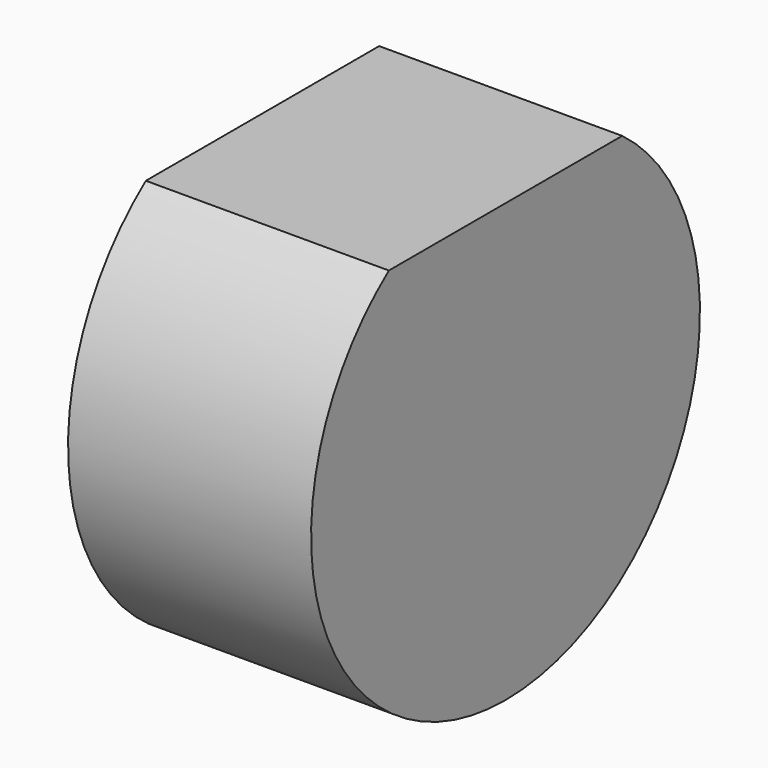
from build123d import *

# Parameters (mm, degrees)
F1_DEPTH = 1


with BuildPart() as f1:
    # F0 (on Right) → F1 (new body)
    with BuildSketch(Plane.YZ):
        with BuildLine():
            Line((0.6, 0.8), (-0.6, 0.8))
            ThreePointArc((-0.6, 0.8), (0, -1), (0.6, 0.8))
        make_face()
    extrude(amount=F1_DEPTH)


solid = f1.part
